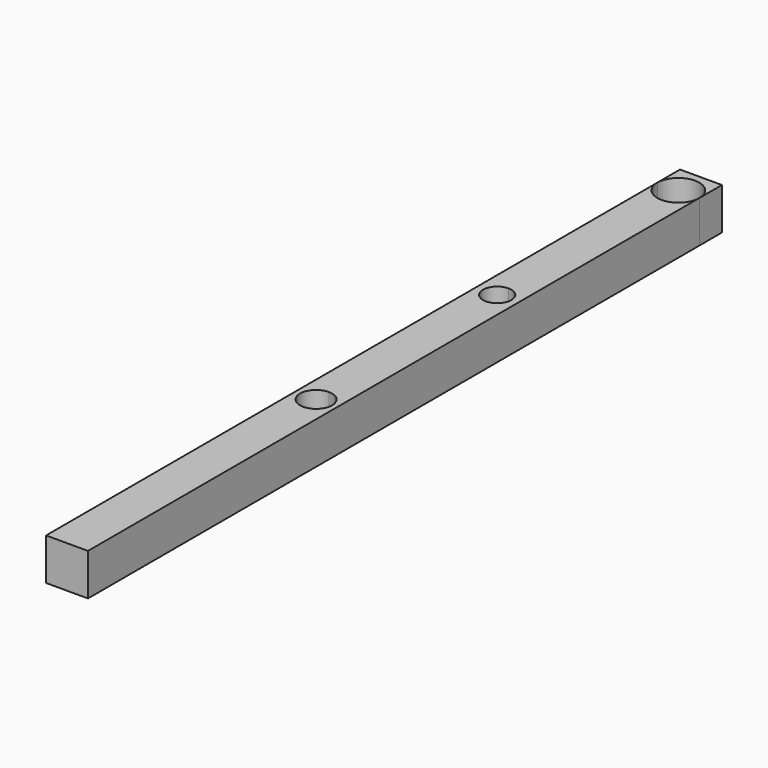
from build123d import *

# Parameters (mm, degrees)
F0_W     = 37.592
F0_H     = 37.592
F1_DEPTH = 711.2
F3_DEPTH = 37.593


with BuildPart() as f1:
    # F0 (on Front) → F1 (new body)
    with BuildSketch(Plane.XZ):
        with Locations((-27.443717, -20.448094)):
            Rectangle(F0_W, F0_H)
    extrude(amount=F1_DEPTH)

    # F2 (on face) → F3 (cut, through all)
    with BuildSketch(Plane.XY.offset(-1.652094)):
        with BuildLine():
            ThreePointArc((-27.443717, -417.421675), (-41.822042, -431.8), (-27.443717, -446.178325))
            Line((-27.443717, -446.178325), (-27.443717, -431.8))
            Line((-27.443717, -431.8), (-27.443717, -417.421675))
        make_face()
        with BuildLine():
            Line((-27.443717, -431.8), (-27.443717, -446.178325))
            ThreePointArc((-27.443717, -446.178325), (-17.276706, -441.967011), (-13.065392, -431.8))
            ThreePointArc((-13.065392, -431.8), (-17.276706, -421.632989), (-27.443717, -417.421675))
            Line((-27.443717, -417.421675), (-27.443717, -431.8))
        make_face()
        with BuildLine():
            ThreePointArc((-27.443717, -241.280192), (-18.477467, -237.566249), (-14.763525, -228.6))
            ThreePointArc((-14.763525, -228.6), (-18.477467, -219.633751), (-27.443717, -215.919808))
            Line((-27.443717, -215.919808), (-27.443717, -228.6))
            Line((-27.443717, -228.6), (-27.443717, -241.280192))
        make_face()
        with BuildLine():
            Line((-27.443717, -228.6), (-27.443717, -215.919808))
            ThreePointArc((-27.443717, -215.919808), (-40.123908, -228.6), (-27.443717, -241.280192))
            Line((-27.443717, -241.280192), (-27.443717, -228.6))
        make_face()
        with BuildLine():
            ThreePointArc((-27.443717, -44.196), (-14.152938, -38.690779), (-8.647717, -25.4))
            ThreePointArc((-8.647717, -25.4), (-40.734496, -12.109221), (-27.443717, -44.196))
        make_face()
    extrude(amount=-F3_DEPTH, mode=Mode.SUBTRACT)


solid = f1.part
